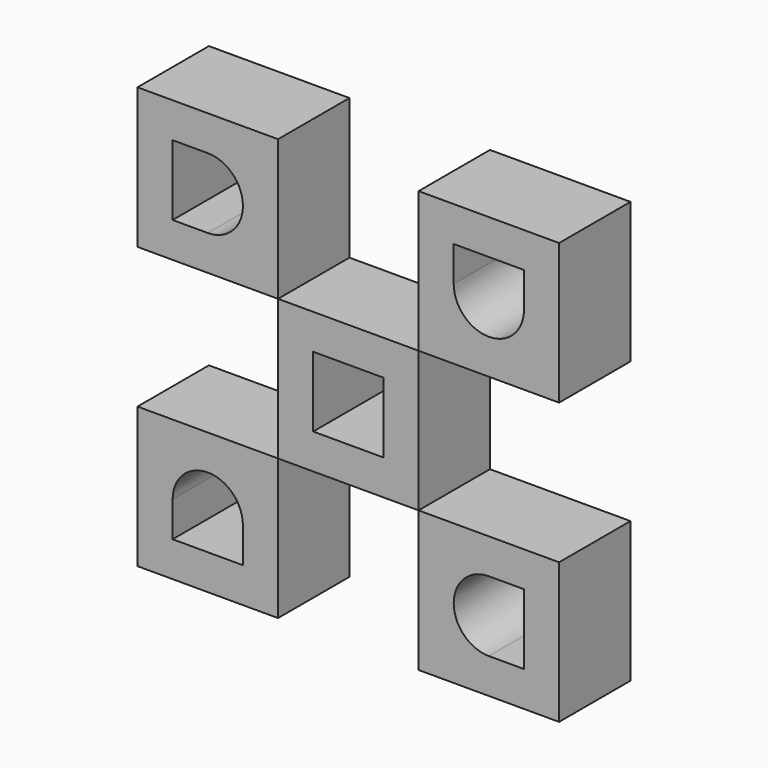
from build123d import *

# Parameters (mm, degrees)
F0_W     = 20
F0_H     = 20
F1_DEPTH = 10
F2_DEPTH = 12.7


with BuildPart() as f1:
    # F0 (on Front) → F1 (new body)
    with BuildSketch(Plane.XZ):
        with Locations((10, 10)):
            Rectangle(F0_W, F0_H)
        Polygon((15, 10), (15, 5), (10, 5), (5, 5), (5, 10), (5, 15), (10, 15), (15, 15), align=None, mode=Mode.SUBTRACT)
        with Locations((-10, 30)):
            Rectangle(F0_W, F0_H)
        with BuildLine():
            ThreePointArc((-10, 35), (-5, 30), (-10, 25))
            Line((-10, 25), (-15, 25))
            Line((-15, 25), (-15, 35))
            Line((-15, 35), (-10, 35))
        make_face(mode=Mode.SUBTRACT)
        with Locations((30, 30)):
            Rectangle(F0_W, F0_H)
        with BuildLine():
            Line((25, 35), (35, 35))
            Line((35, 35), (35, 30))
            ThreePointArc((35, 30), (30, 25), (25, 30))
            Line((25, 30), (25, 35))
        make_face(mode=Mode.SUBTRACT)
        with Locations((30, -10)):
            Rectangle(F0_W, F0_H)
        with BuildLine():
            Line((35, -5), (35, -15))
            Line((35, -15), (30, -15))
            ThreePointArc((30, -15), (25, -10), (30, -5))
            Line((30, -5), (35, -5))
        make_face(mode=Mode.SUBTRACT)
        with Locations((-10, -10)):
            Rectangle(F0_W, F0_H)
        with BuildLine():
            Line((-5, -10), (-5, -15))
            Line((-5, -15), (-15, -15))
            Line((-15, -15), (-15, -10))
            ThreePointArc((-15, -10), (-10, -5), (-5, -10))
        make_face(mode=Mode.SUBTRACT)
    extrude(amount=F1_DEPTH)


with BuildPart() as f2:
    # F0 (on Front) → F2 (new body)
    with BuildSketch(Plane.XZ):
        with Locations((10, 10)):
            Rectangle(F0_W, F0_H)
        Polygon((15, 10), (15, 5), (10, 5), (5, 5), (5, 10), (5, 15), (10, 15), (15, 15), align=None, mode=Mode.SUBTRACT)
        with Locations((-10, 30)):
            Rectangle(F0_W, F0_H)
        with BuildLine():
            ThreePointArc((-10, 35), (-5, 30), (-10, 25))
            Line((-10, 25), (-15, 25))
            Line((-15, 25), (-15, 35))
            Line((-15, 35), (-10, 35))
        make_face(mode=Mode.SUBTRACT)
        with Locations((30, 30)):
            Rectangle(F0_W, F0_H)
        with BuildLine():
            Line((25, 35), (35, 35))
            Line((35, 35), (35, 30))
            ThreePointArc((35, 30), (30, 25), (25, 30))
            Line((25, 30), (25, 35))
        make_face(mode=Mode.SUBTRACT)
        with Locations((30, -10)):
            Rectangle(F0_W, F0_H)
        with BuildLine():
            Line((35, -5), (35, -15))
            Line((35, -15), (30, -15))
            ThreePointArc((30, -15), (25, -10), (30, -5))
            Line((30, -5), (35, -5))
        make_face(mode=Mode.SUBTRACT)
        with Locations((-10, -10)):
            Rectangle(F0_W, F0_H)
        with BuildLine():
            Line((-5, -10), (-5, -15))
            Line((-5, -15), (-15, -15))
            Line((-15, -15), (-15, -10))
            ThreePointArc((-15, -10), (-10, -5), (-5, -10))
        make_face(mode=Mode.SUBTRACT)
    extrude(amount=F2_DEPTH)


solid = Compound([f1.part, f2.part])
